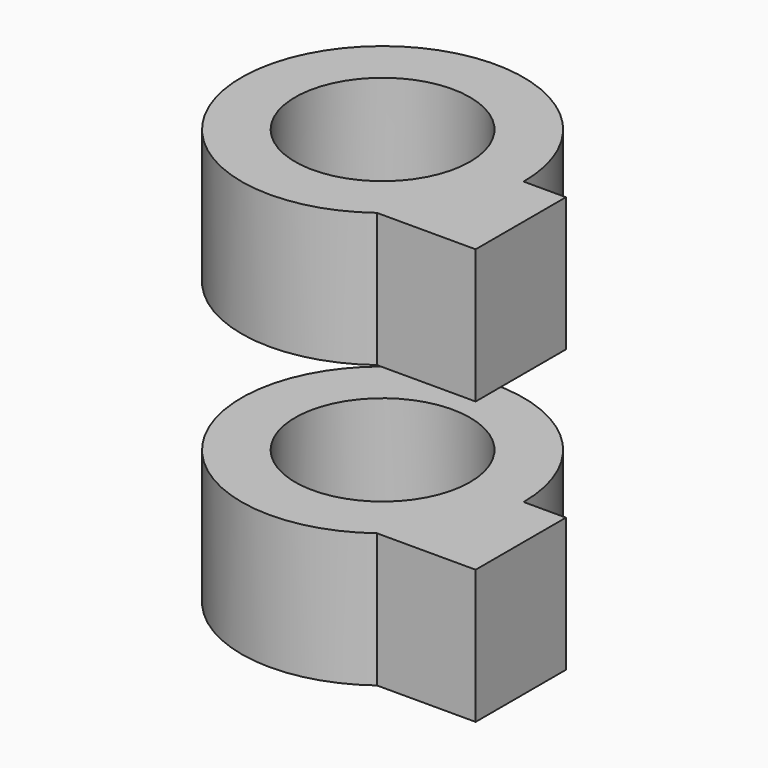
from build123d import *

# Parameters (mm, degrees)
CYLINDER010_R     = 3.1
CYLINDER010_DEPTH = 20
CYLINDER002_R     = 5
CYLINDER002_DEPTH = 4.75
BOX002_W          = 3.5
BOX002_H          = 4
BOX002_DEPTH      = 4.75
BOX004_W          = 3.5
BOX004_H          = 4
BOX004_DEPTH      = 4.75
CYLINDER_R        = 5
CYLINDER_DEPTH    = 4.75


with BuildPart() as cylinder010:
    # Cylinder010 → Cylinder010 (new body)
    with BuildSketch(Plane.XY):
        Circle(CYLINDER010_R)
    extrude(amount=CYLINDER010_DEPTH)


with BuildPart() as cylinder002:
    # Cylinder002 → Cylinder002 (new body)
    with BuildSketch(Plane.XY.offset(10)):
        Circle(CYLINDER002_R)
    extrude(amount=CYLINDER002_DEPTH)


with BuildPart() as cube002:
    # Box002 → Box002 (new body)
    with BuildSketch(Plane(origin=(3, -4, 0), x_dir=(1, 0, 0), z_dir=(0, 0, 1))):
        with Locations((1.75, 2)):
            Rectangle(BOX002_W, BOX002_H)
    extrude(amount=BOX002_DEPTH)


with BuildPart() as cube004:
    # Box004 → Box004 (new body)
    with BuildSketch(Plane(origin=(3, -4, 10), x_dir=(1, 0, 0), z_dir=(0, 0, 1))):
        with Locations((1.75, 2)):
            Rectangle(BOX004_W, BOX004_H)
    extrude(amount=BOX004_DEPTH)


with BuildPart() as obj1:
    # Cylinder → Cylinder (new body)
    with BuildSketch(Plane.XY):
        Circle(CYLINDER_R)
    extrude(amount=CYLINDER_DEPTH)

    # Connect004: union Cylinder002, Cube002, Cube004
    add(cylinder002.part)
    add(cube002.part)
    add(cube004.part)

    # Cut001: cut Cylinder010
    add(cylinder010.part, mode=Mode.SUBTRACT)


solid = obj1.part
